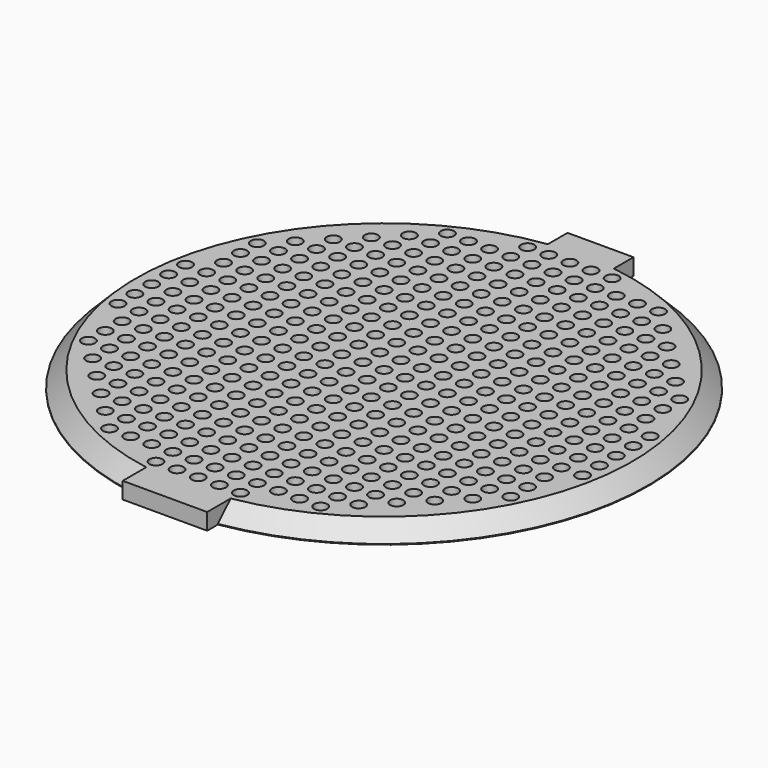
from build123d import *

# Parameters (mm, degrees)
F0_R           = 50.8
F1_DEPTH       = 3.175
F2_SIZE        = 3.048
F3_R           = 1.27
F4_DEPTH       = 3.176
F6_W           = 16.256
F6_H           = 3.175
F7_DEPTH       = 1.905
F7_DEPTH_BACK  = 3.744828977
F9_W           = 12.7
F9_H           = 3.175
F10_DEPTH      = 4.318
F10_DEPTH_BACK = 1.27


with BuildPart() as f1:
    # F0 (on Top) → F1 (new body)
    with BuildSketch(Plane.XY):
        Circle(F0_R)
    extrude(amount=F1_DEPTH)

    # F2
    f2_edges = [f1.edges().sort_by_distance(p)[0] for p in [
        (-50.8, 0, 3.175),
    ]]
    chamfer(f2_edges, length=F2_SIZE)

    # F3 (on face) → F4 (cut, through all)
    with BuildSketch(Plane.XY.offset(3.175)):
        Circle(F3_R)
        with Locations((0, 4.064)):
            Circle(F3_R)
        with Locations((0, 8.128)):
            Circle(F3_R)
        with Locations((0, 12.192)):
            Circle(F3_R)
        with Locations((0, 16.256)):
            Circle(F3_R)
        with Locations((0, 20.32)):
            Circle(F3_R)
        with Locations((0, 24.384)):
            Circle(F3_R)
        with Locations((0, 28.448)):
            Circle(F3_R)
        with Locations((0, 32.512)):
            Circle(F3_R)
        with Locations((0, 36.576)):
            Circle(F3_R)
        with Locations((0, 40.64)):
            Circle(F3_R)
        with Locations((0, 44.704)):
            Circle(F3_R)
        with Locations((4.064, 0)):
            Circle(F3_R)
        with Locations((4.064, 4.064)):
            Circle(F3_R)
        with Locations((4.064, 8.128)):
            Circle(F3_R)
        with Locations((4.064, 12.192)):
            Circle(F3_R)
        with Locations((4.064, 16.256)):
            Circle(F3_R)
        with Locations((4.064, 20.32)):
            Circle(F3_R)
        with Locations((4.064, 24.384)):
            Circle(F3_R)
        with Locations((4.064, 28.448)):
            Circle(F3_R)
        with Locations((4.064, 32.512)):
            Circle(F3_R)
        with Locations((4.064, 36.576)):
            Circle(F3_R)
        with Locations((4.064, 40.64)):
            Circle(F3_R)
        with Locations((4.064, 44.704)):
            Circle(F3_R)
        with Locations((8.128, 0)):
            Circle(F3_R)
        with Locations((8.128, 4.064)):
            Circle(F3_R)
        with Locations((8.128, 8.128)):
            Circle(F3_R)
        with Locations((8.128, 12.192)):
            Circle(F3_R)
        with Locations((8.128, 16.256)):
            Circle(F3_R)
        with Locations((8.128, 20.32)):
            Circle(F3_R)
        with Locations((8.128, 24.384)):
            Circle(F3_R)
        with Locations((8.128, 28.448)):
            Circle(F3_R)
        with Locations((8.128, 32.512)):
            Circle(F3_R)
        with Locations((8.128, 36.576)):
            Circle(F3_R)
        with Locations((8.128, 40.64)):
            Circle(F3_R)
        with Locations((8.128, 44.704)):
            Circle(F3_R)
        with Locations((12.192, 0)):
            Circle(F3_R)
        with Locations((12.192, 4.064)):
            Circle(F3_R)
        with Locations((12.192, 8.128)):
            Circle(F3_R)
        with Locations((12.192, 12.192)):
            Circle(F3_R)
        with Locations((12.192, 16.256)):
            Circle(F3_R)
        with Locations((12.192, 20.32)):
            Circle(F3_R)
        with Locations((12.192, 24.384)):
            Circle(F3_R)
        with Locations((12.192, 28.448)):
            Circle(F3_R)
        with Locations((12.192, 32.512)):
            Circle(F3_R)
        with Locations((12.192, 36.576)):
            Circle(F3_R)
        with Locations((12.192, 40.64)):
            Circle(F3_R)
        with Locations((16.256, 0)):
            Circle(F3_R)
        with Locations((16.256, 4.064)):
            Circle(F3_R)
        with Locations((16.256, 8.128)):
            Circle(F3_R)
        with Locations((16.256, 12.192)):
            Circle(F3_R)
        with Locations((16.256, 16.256)):
            Circle(F3_R)
        with Locations((16.256, 20.32)):
            Circle(F3_R)
        with Locations((16.256, 24.384)):
            Circle(F3_R)
        with Locations((16.256, 28.448)):
            Circle(F3_R)
        with Locations((16.256, 32.512)):
            Circle(F3_R)
        with Locations((16.256, 36.576)):
            Circle(F3_R)
        with Locations((16.256, 40.64)):
            Circle(F3_R)
        with Locations((20.32, 0)):
            Circle(F3_R)
        with Locations((20.32, 4.064)):
            Circle(F3_R)
        with Locations((20.32, 8.128)):
            Circle(F3_R)
        with Locations((20.32, 12.192)):
            Circle(F3_R)
        with Locations((20.32, 16.256)):
            Circle(F3_R)
        with Locations((20.32, 20.32)):
            Circle(F3_R)
        with Locations((20.32, 24.384)):
            Circle(F3_R)
        with Locations((20.32, 28.448)):
            Circle(F3_R)
        with Locations((20.32, 32.512)):
            Circle(F3_R)
        with Locations((20.32, 36.576)):
            Circle(F3_R)
        with Locations((20.32, 40.64)):
            Circle(F3_R)
        with Locations((24.384, 0)):
            Circle(F3_R)
        with Locations((24.384, 4.064)):
            Circle(F3_R)
        with Locations((24.384, 8.128)):
            Circle(F3_R)
        with Locations((24.384, 12.192)):
            Circle(F3_R)
        with Locations((24.384, 16.256)):
            Circle(F3_R)
        with Locations((24.384, 20.32)):
            Circle(F3_R)
        with Locations((24.384, 24.384)):
            Circle(F3_R)
        with Locations((24.384, 28.448)):
            Circle(F3_R)
        with Locations((24.384, 32.512)):
            Circle(F3_R)
        with Locations((24.384, 36.576)):
            Circle(F3_R)
        with Locations((28.448, 0)):
            Circle(F3_R)
        with Locations((28.448, 4.064)):
            Circle(F3_R)
        with Locations((28.448, 8.128)):
            Circle(F3_R)
        with Locations((28.448, 12.192)):
            Circle(F3_R)
        with Locations((28.448, 16.256)):
            Circle(F3_R)
        with Locations((28.448, 20.32)):
            Circle(F3_R)
        with Locations((28.448, 24.384)):
            Circle(F3_R)
        with Locations((28.448, 28.448)):
            Circle(F3_R)
        with Locations((28.448, 32.512)):
            Circle(F3_R)
        with Locations((32.512, 0)):
            Circle(F3_R)
        with Locations((32.512, 4.064)):
            Circle(F3_R)
        with Locations((32.512, 8.128)):
            Circle(F3_R)
        with Locations((32.512, 12.192)):
            Circle(F3_R)
        with Locations((32.512, 16.256)):
            Circle(F3_R)
        with Locations((32.512, 20.32)):
            Circle(F3_R)
        with Locations((32.512, 24.384)):
            Circle(F3_R)
        with Locations((32.512, 28.448)):
            Circle(F3_R)
        with Locations((36.576, 0)):
            Circle(F3_R)
        with Locations((36.576, 4.064)):
            Circle(F3_R)
        with Locations((36.576, 8.128)):
            Circle(F3_R)
        with Locations((36.576, 12.192)):
            Circle(F3_R)
        with Locations((36.576, 16.256)):
            Circle(F3_R)
        with Locations((36.576, 20.32)):
            Circle(F3_R)
        with Locations((36.576, 24.384)):
            Circle(F3_R)
        with Locations((40.64, 0)):
            Circle(F3_R)
        with Locations((40.64, 4.064)):
            Circle(F3_R)
        with Locations((40.64, 8.128)):
            Circle(F3_R)
        with Locations((40.64, 12.192)):
            Circle(F3_R)
        with Locations((40.64, 16.256)):
            Circle(F3_R)
        with Locations((40.64, 20.32)):
            Circle(F3_R)
        with Locations((44.704, 0)):
            Circle(F3_R)
        with Locations((44.704, 4.064)):
            Circle(F3_R)
        with Locations((44.704, 8.128)):
            Circle(F3_R)
        with Locations((-4.064, 4.064)):
            Circle(F3_R)
        with Locations((-28.448, 0)):
            Circle(F3_R)
        with Locations((-8.128, 20.32)):
            Circle(F3_R)
        with Locations((-16.256, 20.32)):
            Circle(F3_R)
        with Locations((-32.512, 24.384)):
            Circle(F3_R)
        with Locations((-44.704, 4.064)):
            Circle(F3_R)
        with Locations((-12.192, 36.576)):
            Circle(F3_R)
        with Locations((-12.192, 40.64)):
            Circle(F3_R)
        with Locations((-24.384, 0)):
            Circle(F3_R)
        with Locations((-20.32, 12.192)):
            Circle(F3_R)
        with Locations((-28.448, 20.32)):
            Circle(F3_R)
        with Locations((-24.384, 32.512)):
            Circle(F3_R)
        with Locations((-4.064, 36.576)):
            Circle(F3_R)
        with Locations((-40.64, 20.32)):
            Circle(F3_R)
        with Locations((-24.384, 28.448)):
            Circle(F3_R)
        with Locations((-8.128, 16.256)):
            Circle(F3_R)
        with Locations((-32.512, 16.256)):
            Circle(F3_R)
        with Locations((-20.32, 8.128)):
            Circle(F3_R)
        with Locations((-32.512, 12.192)):
            Circle(F3_R)
        with Locations((-24.384, 24.384)):
            Circle(F3_R)
        with Locations((-44.704, 0)):
            Circle(F3_R)
        with Locations((-12.192, 0)):
            Circle(F3_R)
        with Locations((-20.32, 40.64)):
            Circle(F3_R)
        with Locations((-4.064, 32.512)):
            Circle(F3_R)
        with Locations((-40.64, 16.256)):
            Circle(F3_R)
        with Locations((-8.128, 12.192)):
            Circle(F3_R)
        with Locations((-12.192, 28.448)):
            Circle(F3_R)
        with Locations((-20.32, 4.064)):
            Circle(F3_R)
        with Locations((-4.064, 28.448)):
            Circle(F3_R)
        with Locations((-32.512, 8.128)):
            Circle(F3_R)
        with Locations((-8.128, 8.128)):
            Circle(F3_R)
        with Locations((-12.192, 24.384)):
            Circle(F3_R)
        with Locations((-4.064, 0)):
            Circle(F3_R)
        with Locations((-8.128, 40.64)):
            Circle(F3_R)
        with Locations((-4.064, 24.384)):
            Circle(F3_R)
        with Locations((-36.576, 12.192)):
            Circle(F3_R)
        with Locations((-8.128, 4.064)):
            Circle(F3_R)
        with Locations((-16.256, 40.64)):
            Circle(F3_R)
        with Locations((-8.128, 44.704)):
            Circle(F3_R)
        with Locations((-16.256, 16.256)):
            Circle(F3_R)
        with Locations((-20.32, 36.576)):
            Circle(F3_R)
        with Locations((-28.448, 16.256)):
            Circle(F3_R)
        with Locations((-16.256, 8.128)):
            Circle(F3_R)
        with Locations((-8.128, 36.576)):
            Circle(F3_R)
        with Locations((-20.32, 28.448)):
            Circle(F3_R)
        with Locations((-28.448, 8.128)):
            Circle(F3_R)
        with Locations((-4.064, 20.32)):
            Circle(F3_R)
        with Locations((-40.64, 4.064)):
            Circle(F3_R)
        with Locations((-24.384, 12.192)):
            Circle(F3_R)
        with Locations((-24.384, 20.32)):
            Circle(F3_R)
        with Locations((-40.64, 12.192)):
            Circle(F3_R)
        with Locations((-32.512, 0)):
            Circle(F3_R)
        with Locations((-12.192, 16.256)):
            Circle(F3_R)
        with Locations((-16.256, 36.576)):
            Circle(F3_R)
        with Locations((-24.384, 8.128)):
            Circle(F3_R)
        with Locations((-20.32, 0)):
            Circle(F3_R)
        with Locations((-28.448, 32.512)):
            Circle(F3_R)
        with Locations((-40.64, 0)):
            Circle(F3_R)
        with Locations((-4.064, 16.256)):
            Circle(F3_R)
        with Locations((-4.064, 44.704)):
            Circle(F3_R)
        with Locations((-12.192, 12.192)):
            Circle(F3_R)
        with Locations((-16.256, 32.512)):
            Circle(F3_R)
        with Locations((-36.576, 0)):
            Circle(F3_R)
        with Locations((-8.128, 32.512)):
            Circle(F3_R)
        with Locations((-16.256, 4.064)):
            Circle(F3_R)
        with Locations((-20.32, 24.384)):
            Circle(F3_R)
        with Locations((-28.448, 4.064)):
            Circle(F3_R)
        with Locations((-32.512, 28.448)):
            Circle(F3_R)
        with Locations((-16.256, 0)):
            Circle(F3_R)
        with Locations((-24.384, 4.064)):
            Circle(F3_R)
        with Locations((-16.256, 28.448)):
            Circle(F3_R)
        with Locations((-28.448, 28.448)):
            Circle(F3_R)
        with Locations((-4.064, 40.64)):
            Circle(F3_R)
        with Locations((-36.576, 20.32)):
            Circle(F3_R)
        with Locations((-36.576, 8.128)):
            Circle(F3_R)
        with Locations((-12.192, 4.064)):
            Circle(F3_R)
        with Locations((-8.128, 24.384)):
            Circle(F3_R)
        with Locations((-16.256, 24.384)):
            Circle(F3_R)
        with Locations((-20.32, 16.256)):
            Circle(F3_R)
        with Locations((-24.384, 36.576)):
            Circle(F3_R)
        with Locations((-28.448, 24.384)):
            Circle(F3_R)
        with Locations((-16.256, 12.192)):
            Circle(F3_R)
        with Locations((-12.192, 32.512)):
            Circle(F3_R)
        with Locations((-20.32, 32.512)):
            Circle(F3_R)
        with Locations((-4.064, 12.192)):
            Circle(F3_R)
        with Locations((-28.448, 12.192)):
            Circle(F3_R)
        with Locations((-4.064, 8.128)):
            Circle(F3_R)
        with Locations((-24.384, 16.256)):
            Circle(F3_R)
        with Locations((-32.512, 4.064)):
            Circle(F3_R)
        with Locations((-40.64, 8.128)):
            Circle(F3_R)
        with Locations((-12.192, 20.32)):
            Circle(F3_R)
        with Locations((-8.128, 0)):
            Circle(F3_R)
        with Locations((-36.576, 4.064)):
            Circle(F3_R)
        with Locations((-36.576, 24.384)):
            Circle(F3_R)
        with Locations((-44.704, 8.128)):
            Circle(F3_R)
        with Locations((-8.128, 28.448)):
            Circle(F3_R)
        with Locations((-12.192, 8.128)):
            Circle(F3_R)
        with Locations((-20.32, 20.32)):
            Circle(F3_R)
        with Locations((-36.576, 16.256)):
            Circle(F3_R)
        with Locations((-32.512, 20.32)):
            Circle(F3_R)
        with Locations((0, -44.704)):
            Circle(F3_R)
        with Locations((0, -40.64)):
            Circle(F3_R)
        with Locations((0, -32.512)):
            Circle(F3_R)
        with Locations((4.064, -4.064)):
            Circle(F3_R)
        with Locations((0, -12.192)):
            Circle(F3_R)
        with Locations((0, -36.576)):
            Circle(F3_R)
        with Locations((0, -24.384)):
            Circle(F3_R)
        with Locations((0, -28.448)):
            Circle(F3_R)
        with Locations((0, -20.32)):
            Circle(F3_R)
        with Locations((0, -8.128)):
            Circle(F3_R)
        with Locations((0, -16.256)):
            Circle(F3_R)
        with Locations((0, -4.064)):
            Circle(F3_R)
        with Locations((-8.128, -36.576)):
            Circle(F3_R)
        with Locations((-24.384, -4.064)):
            Circle(F3_R)
        with Locations((-4.064, -12.192)):
            Circle(F3_R)
        with Locations((36.576, -16.256)):
            Circle(F3_R)
        with Locations((-8.128, -20.32)):
            Circle(F3_R)
        with Locations((-32.512, -12.192)):
            Circle(F3_R)
        with Locations((16.256, -20.32)):
            Circle(F3_R)
        with Locations((20.32, -40.64)):
            Circle(F3_R)
        with Locations((28.448, -20.32)):
            Circle(F3_R)
        with Locations((4.064, -32.512)):
            Circle(F3_R)
        with Locations((-16.256, -8.128)):
            Circle(F3_R)
        with Locations((-20.32, -32.512)):
            Circle(F3_R)
        with Locations((36.576, -12.192)):
            Circle(F3_R)
        with Locations((-20.32, -8.128)):
            Circle(F3_R)
        with Locations((8.128, -44.704)):
            Circle(F3_R)
        with Locations((16.256, -16.256)):
            Circle(F3_R)
        with Locations((20.32, -36.576)):
            Circle(F3_R)
        with Locations((28.448, -16.256)):
            Circle(F3_R)
        with Locations((4.064, -28.448)):
            Circle(F3_R)
        with Locations((-32.512, -20.32)):
            Circle(F3_R)
        with Locations((36.576, -8.128)):
            Circle(F3_R)
        with Locations((-4.064, -4.064)):
            Circle(F3_R)
        with Locations((-32.512, -16.256)):
            Circle(F3_R)
        with Locations((8.128, -40.64)):
            Circle(F3_R)
        with Locations((16.256, -12.192)):
            Circle(F3_R)
        with Locations((20.32, -32.512)):
            Circle(F3_R)
        with Locations((28.448, -12.192)):
            Circle(F3_R)
        with Locations((4.064, -12.192)):
            Circle(F3_R)
        with Locations((4.064, -8.128)):
            Circle(F3_R)
        with Locations((4.064, -24.384)):
            Circle(F3_R)
        with Locations((-36.576, -16.256)):
            Circle(F3_R)
        with Locations((-28.448, -16.256)):
            Circle(F3_R)
        with Locations((-28.448, -32.512)):
            Circle(F3_R)
        with Locations((-32.512, -28.448)):
            Circle(F3_R)
        with Locations((-12.192, -32.512)):
            Circle(F3_R)
        with Locations((8.128, -36.576)):
            Circle(F3_R)
        with Locations((16.256, -8.128)):
            Circle(F3_R)
        with Locations((20.32, -28.448)):
            Circle(F3_R)
        with Locations((28.448, -8.128)):
            Circle(F3_R)
        with Locations((4.064, -20.32)):
            Circle(F3_R)
        with Locations((-20.32, -20.32)):
            Circle(F3_R)
        with Locations((-20.32, -36.576)):
            Circle(F3_R)
        with Locations((-16.256, -12.192)):
            Circle(F3_R)
        with Locations((36.576, -4.064)):
            Circle(F3_R)
        with Locations((-8.128, -16.256)):
            Circle(F3_R)
        with Locations((-4.064, -40.64)):
            Circle(F3_R)
        with Locations((-12.192, -40.64)):
            Circle(F3_R)
        with Locations((40.64, -8.128)):
            Circle(F3_R)
        with Locations((8.128, -4.064)):
            Circle(F3_R)
        with Locations((-40.64, -8.128)):
            Circle(F3_R)
        with Locations((24.384, -16.256)):
            Circle(F3_R)
        with Locations((-12.192, -12.192)):
            Circle(F3_R)
        with Locations((-4.064, -32.512)):
            Circle(F3_R)
        with Locations((12.192, -32.512)):
            Circle(F3_R)
        with Locations((8.128, -16.256)):
            Circle(F3_R)
        with Locations((-36.576, -20.32)):
            Circle(F3_R)
        with Locations((12.192, -24.384)):
            Circle(F3_R)
        with Locations((40.64, -20.32)):
            Circle(F3_R)
        with Locations((32.512, -16.256)):
            Circle(F3_R)
        with Locations((24.384, -28.448)):
            Circle(F3_R)
        with Locations((24.384, -20.32)):
            Circle(F3_R)
        with Locations((-36.576, -12.192)):
            Circle(F3_R)
        with Locations((-36.576, -4.064)):
            Circle(F3_R)
        with Locations((32.512, -8.128)):
            Circle(F3_R)
        with Locations((8.128, -8.128)):
            Circle(F3_R)
        with Locations((40.64, -12.192)):
            Circle(F3_R)
        with Locations((-16.256, -32.512)):
            Circle(F3_R)
        with Locations((-24.384, -20.32)):
            Circle(F3_R)
        with Locations((-8.128, -40.64)):
            Circle(F3_R)
        with Locations((-40.64, -16.256)):
            Circle(F3_R)
        with Locations((-12.192, -20.32)):
            Circle(F3_R)
        with Locations((-36.576, -8.128)):
            Circle(F3_R)
        with Locations((12.192, -4.064)):
            Circle(F3_R)
        with Locations((-24.384, -24.384)):
            Circle(F3_R)
        with Locations((-16.256, -20.32)):
            Circle(F3_R)
        with Locations((36.576, -20.32)):
            Circle(F3_R)
        with Locations((-28.448, -12.192)):
            Circle(F3_R)
        with Locations((28.448, -28.448)):
            Circle(F3_R)
        with Locations((-32.512, -24.384)):
            Circle(F3_R)
        with Locations((36.576, -24.384)):
            Circle(F3_R)
        with Locations((-28.448, -8.128)):
            Circle(F3_R)
        with Locations((16.256, -32.512)):
            Circle(F3_R)
        with Locations((12.192, -12.192)):
            Circle(F3_R)
        with Locations((20.32, -4.064)):
            Circle(F3_R)
        with Locations((4.064, -36.576)):
            Circle(F3_R)
        with Locations((8.128, -12.192)):
            Circle(F3_R)
        with Locations((28.448, -24.384)):
            Circle(F3_R)
        with Locations((24.384, -8.128)):
            Circle(F3_R)
        with Locations((-4.064, -24.384)):
            Circle(F3_R)
        with Locations((-40.64, -12.192)):
            Circle(F3_R)
        with Locations((28.448, -32.512)):
            Circle(F3_R)
        with Locations((-8.128, -12.192)):
            Circle(F3_R)
        with Locations((-4.064, -20.32)):
            Circle(F3_R)
        with Locations((24.384, -32.512)):
            Circle(F3_R)
        with Locations((16.256, -24.384)):
            Circle(F3_R)
        with Locations((20.32, -12.192)):
            Circle(F3_R)
        with Locations((12.192, -36.576)):
            Circle(F3_R)
        with Locations((-16.256, -28.448)):
            Circle(F3_R)
        with Locations((8.128, -20.32)):
            Circle(F3_R)
        with Locations((16.256, -36.576)):
            Circle(F3_R)
        with Locations((-20.32, -28.448)):
            Circle(F3_R)
        with Locations((12.192, -16.256)):
            Circle(F3_R)
        with Locations((-20.32, -4.064)):
            Circle(F3_R)
        with Locations((-24.384, -32.512)):
            Circle(F3_R)
        with Locations((-12.192, -36.576)):
            Circle(F3_R)
        with Locations((40.64, -4.064)):
            Circle(F3_R)
        with Locations((24.384, -12.192)):
            Circle(F3_R)
        with Locations((-16.256, -24.384)):
            Circle(F3_R)
        with Locations((-8.128, -32.512)):
            Circle(F3_R)
        with Locations((4.064, -40.64)):
            Circle(F3_R)
        with Locations((-12.192, -16.256)):
            Circle(F3_R)
        with Locations((-8.128, -4.064)):
            Circle(F3_R)
        with Locations((-36.576, -24.384)):
            Circle(F3_R)
        with Locations((24.384, -4.064)):
            Circle(F3_R)
        with Locations((16.256, -28.448)):
            Circle(F3_R)
        with Locations((12.192, -8.128)):
            Circle(F3_R)
        with Locations((-4.064, -8.128)):
            Circle(F3_R)
        with Locations((-28.448, -28.448)):
            Circle(F3_R)
        with Locations((-4.064, -16.256)):
            Circle(F3_R)
        with Locations((-4.064, -44.704)):
            Circle(F3_R)
        with Locations((-20.32, -40.64)):
            Circle(F3_R)
        with Locations((16.256, -40.64)):
            Circle(F3_R)
        with Locations((12.192, -20.32)):
            Circle(F3_R)
        with Locations((32.512, -4.064)):
            Circle(F3_R)
        with Locations((-24.384, -12.192)):
            Circle(F3_R)
        with Locations((20.32, -8.128)):
            Circle(F3_R)
        with Locations((-28.448, -20.32)):
            Circle(F3_R)
        with Locations((-12.192, -28.448)):
            Circle(F3_R)
        with Locations((-8.128, -24.384)):
            Circle(F3_R)
        with Locations((4.064, -44.704)):
            Circle(F3_R)
        with Locations((24.384, -36.576)):
            Circle(F3_R)
        with Locations((12.192, -40.64)):
            Circle(F3_R)
        with Locations((8.128, -24.384)):
            Circle(F3_R)
        with Locations((-4.064, -28.448)):
            Circle(F3_R)
        with Locations((-4.064, -36.576)):
            Circle(F3_R)
        with Locations((44.704, -4.064)):
            Circle(F3_R)
        with Locations((32.512, -24.384)):
            Circle(F3_R)
        with Locations((-20.32, -16.256)):
            Circle(F3_R)
        with Locations((-16.256, -4.064)):
            Circle(F3_R)
        with Locations((-16.256, -36.576)):
            Circle(F3_R)
        with Locations((-16.256, -40.64)):
            Circle(F3_R)
        with Locations((-44.704, -8.128)):
            Circle(F3_R)
        with Locations((12.192, -28.448)):
            Circle(F3_R)
        with Locations((-20.32, -12.192)):
            Circle(F3_R)
        with Locations((40.64, -16.256)):
            Circle(F3_R)
        with Locations((20.32, -20.32)):
            Circle(F3_R)
        with Locations((32.512, -12.192)):
            Circle(F3_R)
        with Locations((-44.704, -4.064)):
            Circle(F3_R)
        with Locations((8.128, -28.448)):
            Circle(F3_R)
        with Locations((-32.512, -8.128)):
            Circle(F3_R)
        with Locations((-40.64, -20.32)):
            Circle(F3_R)
        with Locations((24.384, -24.384)):
            Circle(F3_R)
        with Locations((44.704, -8.128)):
            Circle(F3_R)
        with Locations((32.512, -28.448)):
            Circle(F3_R)
        with Locations((-24.384, -36.576)):
            Circle(F3_R)
        with Locations((-24.384, -16.256)):
            Circle(F3_R)
        with Locations((-20.32, -24.384)):
            Circle(F3_R)
        with Locations((-8.128, -44.704)):
            Circle(F3_R)
        with Locations((-12.192, -4.064)):
            Circle(F3_R)
        with Locations((-8.128, -28.448)):
            Circle(F3_R)
        with Locations((28.448, -4.064)):
            Circle(F3_R)
        with Locations((20.32, -24.384)):
            Circle(F3_R)
        with Locations((16.256, -4.064)):
            Circle(F3_R)
        with Locations((8.128, -32.512)):
            Circle(F3_R)
        with Locations((-8.128, -8.128)):
            Circle(F3_R)
        with Locations((32.512, -20.32)):
            Circle(F3_R)
        with Locations((-24.384, -28.448)):
            Circle(F3_R)
        with Locations((-28.448, -24.384)):
            Circle(F3_R)
        with Locations((-28.448, -4.064)):
            Circle(F3_R)
        with Locations((-24.384, -8.128)):
            Circle(F3_R)
        with Locations((-16.256, -16.256)):
            Circle(F3_R)
        with Locations((-12.192, -8.128)):
            Circle(F3_R)
        with Locations((-40.64, -4.064)):
            Circle(F3_R)
        with Locations((-32.512, -4.064)):
            Circle(F3_R)
        with Locations((4.064, -16.256)):
            Circle(F3_R)
        with Locations((-12.192, -24.384)):
            Circle(F3_R)
        with Locations((20.32, -16.256)):
            Circle(F3_R)
    extrude(amount=-F4_DEPTH, mode=Mode.SUBTRACT)

    # F6 (on offset) → F7 (join, two sides)
    with BuildSketch(Plane.XZ.offset(50.8)) as f7_sk:
        with Locations((0, 1.5875)):
            Rectangle(F6_W, F6_H)
    extrude(amount=F7_DEPTH)
    extrude(f7_sk.sketch, amount=-F7_DEPTH_BACK)

    # F9 (on offset) → F10 (join, two sides)
    with BuildSketch(Plane.XZ.offset(-50.8)) as f10_sk:
        with Locations((0, 1.5875)):
            Rectangle(F9_W, F9_H)
    extrude(amount=F10_DEPTH)
    extrude(f10_sk.sketch, amount=-F10_DEPTH_BACK)


solid = f1.part
